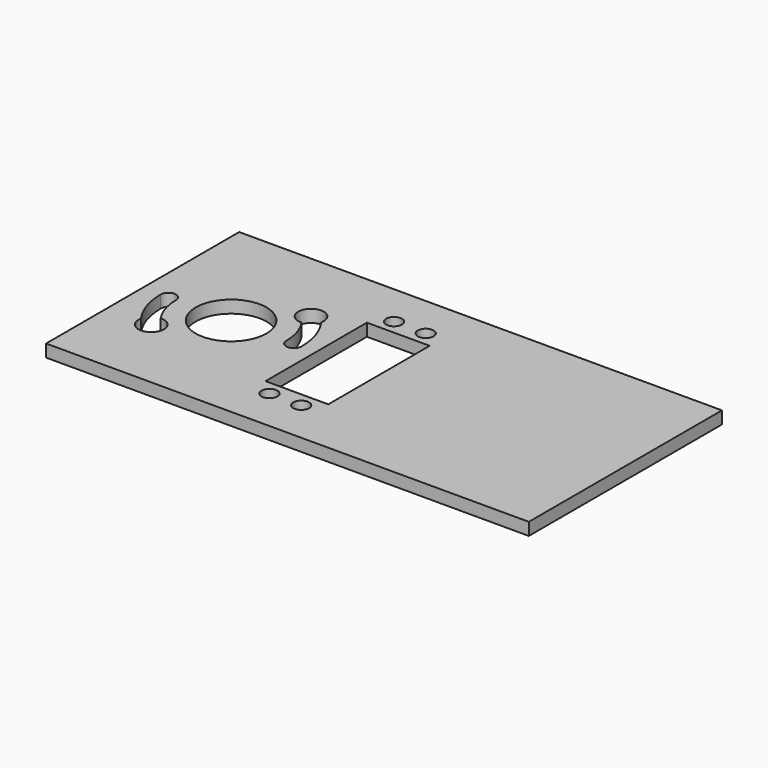
from build123d import *

# Parameters (mm, degrees)
F0_W     = 152.4
F0_H     = 76.2
F0_R     = 2.5019
F0_R_2   = 11.176
F0_W_2   = 19.812
F0_H_2   = 40.005
F1_DEPTH = 3.937


with BuildPart() as f1:
    # F0 (on Top) → F1 (new body)
    with BuildSketch(Plane.XY):
        with Locations((76.2, 38.1)):
            Rectangle(F0_W, F0_H)
        with Locations((59.701836, 13.5255)):
            Circle(F0_R, mode=Mode.SUBTRACT)
        with Locations((69.709436, 13.5255)):
            Circle(F0_R, mode=Mode.SUBTRACT)
        with BuildLine():
            ThreePointArc((5.715, 38.1), (8.128, 40.513), (10.541, 38.1))
            ThreePointArc((10.541, 38.1), (11.345975, 32.868984), (13.686414, 28.121999))
            ThreePointArc((13.686414, 28.121999), (16.69877, 27.031656), (17.9694, 24.0908))
            ThreePointArc((17.9694, 24.0908), (13.478418, 20.077617), (9.993547, 24.989872))
            ThreePointArc((9.993547, 24.989872), (6.811695, 31.204686), (5.715, 38.1))
        make_face(mode=Mode.SUBTRACT)
        with Locations((27.94, 38.1)):
            Circle(F0_R_2, mode=Mode.SUBTRACT)
        with BuildLine():
            ThreePointArc((45.886453, 51.210128), (49.068305, 44.995314), (50.165, 38.1))
            ThreePointArc((50.165, 38.1), (47.752, 35.687), (45.339, 38.1))
            ThreePointArc((45.339, 38.1), (44.534025, 43.331016), (42.193586, 48.078001))
            ThreePointArc((42.193586, 48.078001), (39.008344, 54.877169), (45.9878, 52.1092))
            ThreePointArc((45.9878, 52.1092), (45.962383, 51.656817), (45.886453, 51.210128))
        make_face(mode=Mode.SUBTRACT)
        with Locations((64.705636, 38.1)):
            Rectangle(F0_W_2, F0_H_2, mode=Mode.SUBTRACT)
        with Locations((59.701836, 62.6745)):
            Circle(F0_R, mode=Mode.SUBTRACT)
        with Locations((69.709436, 62.6745)):
            Circle(F0_R, mode=Mode.SUBTRACT)
    extrude(amount=F1_DEPTH)


solid = f1.part
